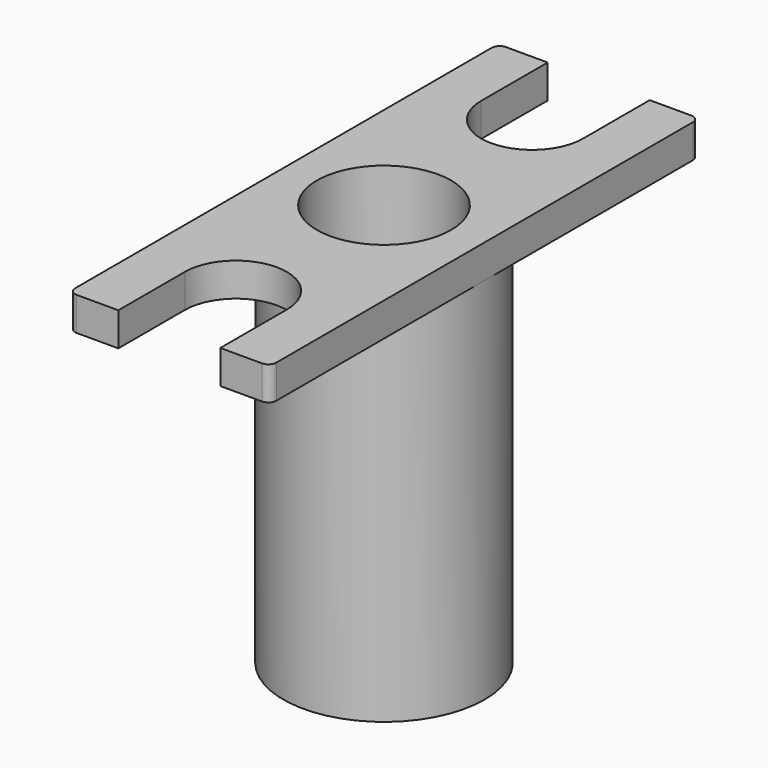
from build123d import *

# Parameters (mm, degrees)
F0_R     = 19.05
F1_DEPTH = 69.85
F2_R     = 12.7
F3_DEPTH = 63.5
F4_R     = 4.7625
F5_DEPTH = 69.851
F7_DEPTH = 6.35
F8_R     = 12.7
F9_DEPTH = 6.35


with BuildPart() as f1:
    # F0 (on Top) → F1 (new body)
    with BuildSketch(Plane.XY):
        Circle(F0_R)
    extrude(amount=F1_DEPTH)

    # F2 (on face) → F3 (cut)
    with BuildSketch(Plane.XY.offset(69.85)):
        Circle(F2_R)
    extrude(amount=-F3_DEPTH, mode=Mode.SUBTRACT)

    # F4 (on face) → F5 (cut, through all)
    with BuildSketch(Plane(origin=(0, 0, 0), x_dir=(1, 0, 0), z_dir=(0, 0, -1))):
        Circle(F4_R)
    extrude(amount=-F5_DEPTH, mode=Mode.SUBTRACT)

    # F6 (on face) → F7 (join)
    with BuildSketch(Plane.XY.offset(69.85)):
        with BuildLine():
            ThreePointArc((-17.526, 50.7907223972), (-18.6036307345, 50.3443531317), (-19.05, 49.2667223972))
            Line((-19.05, 49.2667223972), (-19.05, -49.276))
            ThreePointArc((-19.05, -49.276), (-18.6036307345, -50.3536307345), (-17.526, -50.8))
            Line((-17.526, -50.8), (-9.652, -50.8))
            Line((-9.652, -50.8), (-9.652, -35.052))
            ThreePointArc((-9.652, -35.052), (0, -25.4), (9.652, -35.052))
            Line((9.652, -35.052), (9.652, -50.8))
            Line((9.652, -50.8), (17.526, -50.8))
            ThreePointArc((17.526, -50.8), (18.6036307345, -50.3536307345), (19.05, -49.276))
            Line((19.05, -49.276), (19.05, 49.276))
            ThreePointArc((19.05, 49.276), (18.6036307345, 50.3536307345), (17.526, 50.8))
            Line((17.526, 50.8), (9.652, 50.8))
            Line((9.652, 50.8), (9.652, 35.052))
            ThreePointArc((9.652, 35.052), (0, 25.4), (-9.652, 35.052))
            Line((-9.652, 35.052), (-9.652, 50.7907223972))
            Line((-9.652, 50.7907223972), (-17.526, 50.7907223972))
        make_face()
    extrude(amount=F7_DEPTH)

    # F8 (on face) → F9 (cut)
    with BuildSketch(Plane.XY.offset(76.2)):
        Circle(F8_R)
    extrude(amount=-F9_DEPTH, mode=Mode.SUBTRACT)


solid = f1.part
